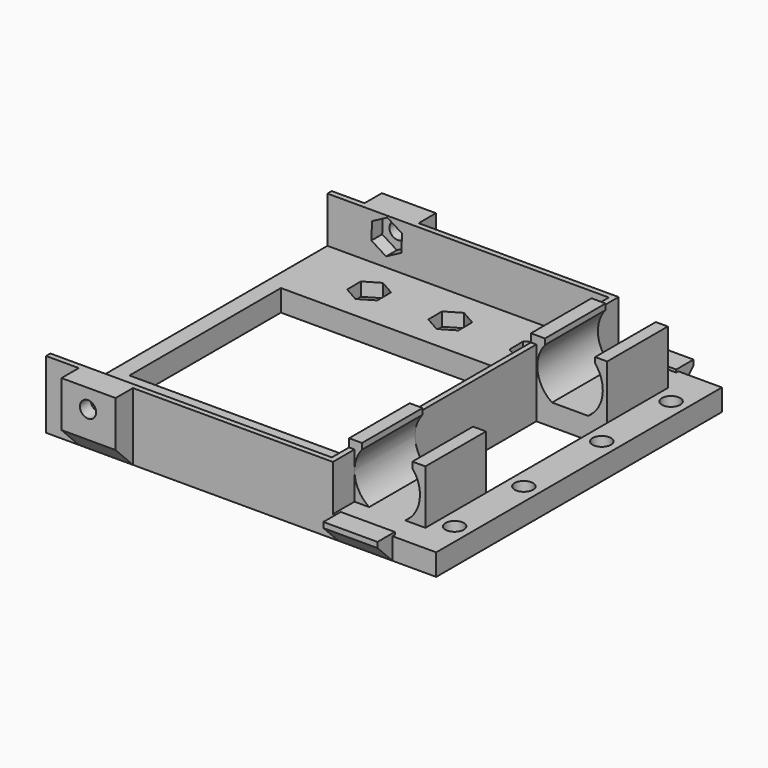
from build123d import *

# Parameters (mm, degrees)
F0_W           = 53
F0_H           = 66
F1_DEPTH       = 12.5
F2_W           = 64
F2_H           = 8.5
F3_DEPTH       = 52
F4_W           = 46
F4_H           = 35
F5_DEPTH       = 5
F6_W           = 14
F6_H           = 12.5
F7_DEPTH       = 1
F8_W           = 14
F8_H           = 14
F9_DEPTH       = 14.1
F11_DEPTH      = 14
F12_W          = 14
F12_H          = 14
F13_DEPTH      = 1
F13_DEPTH_BACK = 13.1
F15_DEPTH      = 14
F16_W          = 5
F16_H          = 4
F17_DEPTH      = 13.1
F18_W          = 5
F18_H          = 4
F19_DEPTH      = 13.1
F20_W          = 66
F20_H          = 4
F21_DEPTH      = 6
F22_W          = 10
F22_H          = 4.5
F23_DEPTH      = 0.5
F23_DEPTH_BACK = 3.5
F25_DEPTH      = 10
F26_W          = 10
F26_H          = 12.5
F27_DEPTH      = 4
F29_DEPTH      = 10
F30_W          = 10
F30_H          = 4.5
F31_DEPTH      = 0.5
F31_DEPTH_BACK = 3.5
F33_DEPTH      = 10
F34_W          = 10
F34_H          = 12.5
F35_DEPTH      = 4
F37_DEPTH      = 10
F39_DEPTH      = 2.5
F40_R          = 1.5
F41_DEPTH      = 6
F43_DEPTH      = 2.5
F44_R          = 1.5
F45_DEPTH      = 6
F46_R          = 1.7
F47_DEPTH      = 5
F49_DEPTH      = 2.5
F50_R          = 1.7
F51_DEPTH      = 6


with BuildPart() as f1:
    # F0 (on Top) → F1 (new body)
    with BuildSketch(Plane.XY):
        Rectangle(F0_W, F0_H)
    extrude(amount=F1_DEPTH)

    # F2 (on face) → F3 (cut)
    with BuildSketch(Plane(origin=(-26.5, 0, 0), x_dir=(0, -1, 0), z_dir=(-1, 0, 0))):
        with Locations((0, 8.25)):
            Rectangle(F2_W, F2_H)
    extrude(amount=-F3_DEPTH, mode=Mode.SUBTRACT)

    # F4 (on face) → F5 (cut)
    with BuildSketch(Plane.XY.offset(4)):
        with Locations((-0.5, 0)):
            Rectangle(F4_W, F4_H)
    extrude(amount=-F5_DEPTH, mode=Mode.SUBTRACT)

    # F6 (on face) → F7 (cut)
    with BuildSketch(Plane.YZ.offset(26.5)):
        with Locations((-21, 6.25)):
            Rectangle(F6_W, F6_H)
    extrude(amount=-F7_DEPTH, mode=Mode.SUBTRACT)

    # F8 (on face) → F9 (join)
    with BuildSketch(Plane.YZ.offset(25.5)):
        with Locations((-21, 7)):
            Rectangle(F8_W, F8_H)
    extrude(amount=F9_DEPTH)

    # F10 (on face) → F11 (cut)
    with BuildSketch(Plane.XZ.offset(28)):
        with BuildLine():
            Line((27.8857629746, 14), (27.8857629746, 12.911010872))
            ThreePointArc((27.8857629746, 12.911010872), (26.5594651822, 8.159449016), (29.2118961029, 4))
            Line((29.2118961029, 4), (35.8752286024, 4))
            ThreePointArc((35.8752286024, 4), (38.5276595231, 8.159449016), (37.2013617307, 12.911010872))
            Line((37.2013617307, 12.911010872), (37.2013617307, 14))
            Line((37.2013617307, 14), (27.8857629746, 14))
        make_face()
    extrude(amount=-F11_DEPTH, mode=Mode.SUBTRACT)

    # F12 (on face) → F13 (join, two sides)
    with BuildSketch(Plane.YZ.offset(26.5)) as f13_sk:
        with Locations((21, 7)):
            Rectangle(F12_W, F12_H)
    extrude(amount=-F13_DEPTH)
    extrude(f13_sk.sketch, amount=F13_DEPTH_BACK)

    # F14 (on face) → F15 (cut)
    with BuildSketch(Plane(origin=(0, 28, 0), x_dir=(-1, 0, 0), z_dir=(0, 1, 0))):
        with BuildLine():
            Line((-37.3720750213, 14), (-37.3720750213, 12.935615631))
            ThreePointArc((-37.3720750213, 12.935615631), (-38.7212150513, 8.175292403), (-36.0664477535, 4))
            Line((-36.0664477535, 4), (-29.4031152539, 4))
            ThreePointArc((-29.4031152539, 4), (-26.7483479561, 8.175292403), (-28.0974879861, 12.935615631))
            Line((-28.0974879861, 12.935615631), (-28.0974879861, 14))
            Line((-28.0974879861, 14), (-37.3720750213, 14))
        make_face()
    extrude(amount=-F15_DEPTH, mode=Mode.SUBTRACT)

    # F16 (on face) → F17 (join, through all)
    with BuildSketch(Plane.YZ.offset(26.5)):
        with Locations((-30.5, 2)):
            Rectangle(F16_W, F16_H)
    extrude(amount=F17_DEPTH)

    # F18 (on face) → F19 (join, through all)
    with BuildSketch(Plane.YZ.offset(26.5)):
        with Locations((30.5, 2)):
            Rectangle(F18_W, F18_H)
    extrude(amount=F19_DEPTH)

    # F20 (on face) → F21 (join)
    with BuildSketch(Plane.YZ.offset(39.6)):
        with Locations((0, 2)):
            Rectangle(F20_W, F20_H)
    extrude(amount=F21_DEPTH)

    # F22 (on face) → F23 (join, two sides)
    with BuildSketch(Plane.XZ.offset(33)) as f23_sk:
        with Locations((32.55, 2.25)):
            Rectangle(F22_W, F22_H)
    extrude(amount=-F23_DEPTH)
    extrude(f23_sk.sketch, amount=F23_DEPTH_BACK)

    # F24 (on face) → F25 (cut)
    with BuildSketch(Plane.YZ.offset(37.55)):
        Polygon((-36.5, 0), (-33, 0), (-36.5, 3.5), align=None)
    extrude(amount=-F25_DEPTH, mode=Mode.SUBTRACT)

    # F26 (on face) → F27 (join)
    with BuildSketch(Plane.XZ.offset(33)):
        with Locations((-15.45, 6.25)):
            Rectangle(F26_W, F26_H)
    extrude(amount=F27_DEPTH)

    # F28 (on face) → F29 (cut, through all)
    with BuildSketch(Plane(origin=(-20.45, 0, 0), x_dir=(0, -1, 0), z_dir=(-1, 0, 0))):
        Polygon((33, 0), (37, 0), (37, 4.0411888622), align=None)
    extrude(amount=-F29_DEPTH, mode=Mode.SUBTRACT)

    # F30 (on face) → F31 (join, two sides)
    with BuildSketch(Plane(origin=(0, 33, 0), x_dir=(-1, 0, 0), z_dir=(0, 1, 0))) as f31_sk:
        with Locations((-32.55, 2.25)):
            Rectangle(F30_W, F30_H)
    extrude(amount=-F31_DEPTH)
    extrude(f31_sk.sketch, amount=F31_DEPTH_BACK)

    # F32 (on face) → F33 (cut, through all)
    with BuildSketch(Plane.YZ.offset(37.55)):
        Polygon((36.5, 3.5), (33, 0), (36.5, 0), align=None)
    extrude(amount=-F33_DEPTH, mode=Mode.SUBTRACT)

    # F34 (on face) → F35 (join)
    with BuildSketch(Plane(origin=(0, 33, 0), x_dir=(-1, 0, 0), z_dir=(0, 1, 0))):
        with Locations((15.45, 6.25)):
            Rectangle(F34_W, F34_H)
    extrude(amount=F35_DEPTH)

    # F36 (on face) → F37 (cut, through all)
    with BuildSketch(Plane.YZ.offset(-10.45)):
        Polygon((37, 4), (33, 0), (37, 0), align=None)
    extrude(amount=-F37_DEPTH, mode=Mode.SUBTRACT)

    # F38 (on face) → F39 (cut)
    with BuildSketch(Plane(origin=(0, -32, 0), x_dir=(-1, 0, 0), z_dir=(0, 1, 0))):
        Polygon((15.5747217333, 12.2), (12.7910795745, 10.6214096491), (12.7663578412, 7.4214096491), (15.5252782667, 5.8), (18.3089204255, 7.3785903509), (18.3336421588, 10.5785903509), align=None)
    extrude(amount=-F39_DEPTH, mode=Mode.SUBTRACT)

    # F40 (on face) → F41 (cut)
    with BuildSketch(Plane(origin=(0, -32, 0), x_dir=(-1, 0, 0), z_dir=(0, 1, 0))):
        with Locations((15.55, 9)):
            Circle(F40_R)
    extrude(amount=-F41_DEPTH, mode=Mode.SUBTRACT)

    # F42 (on face) → F43 (cut)
    with BuildSketch(Plane.XZ.offset(-32)):
        Polygon((-15.6680351614, 5.8), (-12.8377362886, 7.2977785517), (-12.7197011272, 10.4977785517), (-15.4319648386, 12.2), (-18.2622637114, 10.7022214483), (-18.3802988728, 7.5022214483), align=None)
    extrude(amount=-F43_DEPTH, mode=Mode.SUBTRACT)

    # F44 (on face) → F45 (cut)
    with BuildSketch(Plane.XZ.offset(-32)):
        with Locations((-15.55, 9)):
            Circle(F44_R)
    extrude(amount=-F45_DEPTH, mode=Mode.SUBTRACT)

    # F46 (on face) → F47 (cut)
    with BuildSketch(Plane.XY.offset(4)):
        with Locations((42.6, -25)):
            Circle(F46_R)
        with Locations((42.6, -9)):
            Circle(F46_R)
        with Locations((42.6, 9)):
            Circle(F46_R)
        with Locations((42.6, 25)):
            Circle(F46_R)
    extrude(amount=-F47_DEPTH, mode=Mode.SUBTRACT)

    # F48 (on face) → F49 (cut)
    with BuildSketch(Plane.XY.offset(4)):
        Polygon((-12.9739972428, 21.55), (-10.2157173293, 23.1725190483), (-10.2417200865, 26.3725190483), (-13.0260027572, 27.95), (-15.7842826707, 26.3274809517), (-15.7582799135, 23.1274809517), align=None)
        Polygon((2.0260027572, 21.55), (4.7842826707, 23.1725190483), (4.7582799135, 26.3725190483), (1.9739972428, 27.95), (-0.7842826707, 26.3274809517), (-0.7582799135, 23.1274809517), align=None)
        Polygon((17.0260027572, 21.55), (19.7842826707, 23.1725190483), (19.7582799135, 26.3725190483), (16.9739972428, 27.95), (14.2157173293, 26.3274809517), (14.2417200865, 23.1274809517), align=None)
        Polygon((-12.8728363868, -27.95), (-10.1651369013, -26.2398730805), (-10.2923005145, -23.0398730805), (-13.1271636132, -21.55), (-15.8348630987, -23.2601269195), (-15.7076994855, -26.4601269195), align=None)
        Polygon((2.1271636132, -27.95), (4.8348630987, -26.2398730805), (4.7076994855, -23.0398730805), (1.8728363868, -21.55), (-0.8348630987, -23.2601269195), (-0.7076994855, -26.4601269195), align=None)
        Polygon((17.1271636132, -27.95), (19.8348630987, -26.2398730805), (19.7076994855, -23.0398730805), (16.8728363868, -21.55), (14.1651369013, -23.2601269195), (14.2923005145, -26.4601269195), align=None)
    extrude(amount=-F49_DEPTH, mode=Mode.SUBTRACT)

    # F50 (on face) → F51 (cut)
    with BuildSketch(Plane.XY.offset(4)):
        with Locations((-12.9739972428, 24.7725190483)):
            Circle(F50_R)
        with Locations((2.0260027572, 24.7725190483)):
            Circle(F50_R)
        with Locations((17.0260027572, 24.7725190483)):
            Circle(F50_R)
        with Locations((17.1271636132, -24.6398730805)):
            Circle(F50_R)
        with Locations((2.1271636132, -24.6398730805)):
            Circle(F50_R)
        with Locations((-12.8728363868, -24.6398730805)):
            Circle(F50_R)
    extrude(amount=-F51_DEPTH, mode=Mode.SUBTRACT)


solid = f1.part
